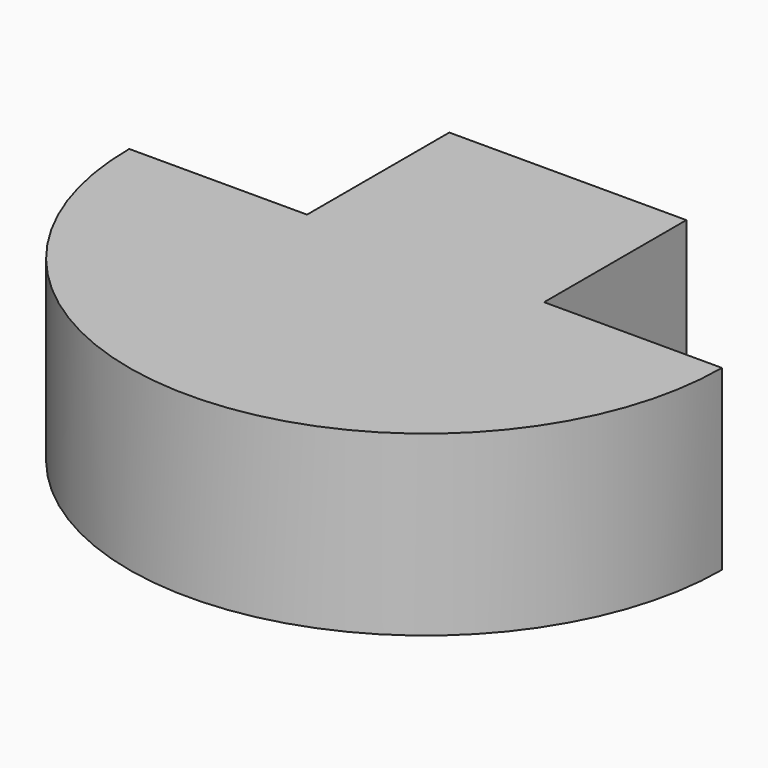
from build123d import *

# Parameters (mm, degrees)
CYLINDER047_W     = 5
CYLINDER047_H     = 3
CYLINDER047_ANGLE = 180
BOX043_W          = 4
BOX043_H          = 5
BOX043_DEPTH      = 2


with BuildPart() as cilindro047:
    # Cylinder047 → Cylinder047 (revolve)
    with BuildSketch(Plane(origin=(-39, 48, 44), x_dir=(-1, 0, 0), z_dir=(0, 1, 0))):
        with Locations((2.5, 1.5)):
            Rectangle(CYLINDER047_W, CYLINDER047_H)
    revolve(axis=Axis((-39, 48, 44), (0, 0, 1)), revolution_arc=CYLINDER047_ANGLE)


with BuildPart() as fusion002024:
    # Box043 → Box043 (new body)
    with BuildSketch(Plane(origin=(-41, 46, 45), x_dir=(1, 0, 0), z_dir=(0, 0, 1))):
        with Locations((2, 2.5)):
            Rectangle(BOX043_W, BOX043_H)
    extrude(amount=BOX043_DEPTH)

    # Fusion002024: union Cilindro047
    add(cilindro047.part)


solid = fusion002024.part
